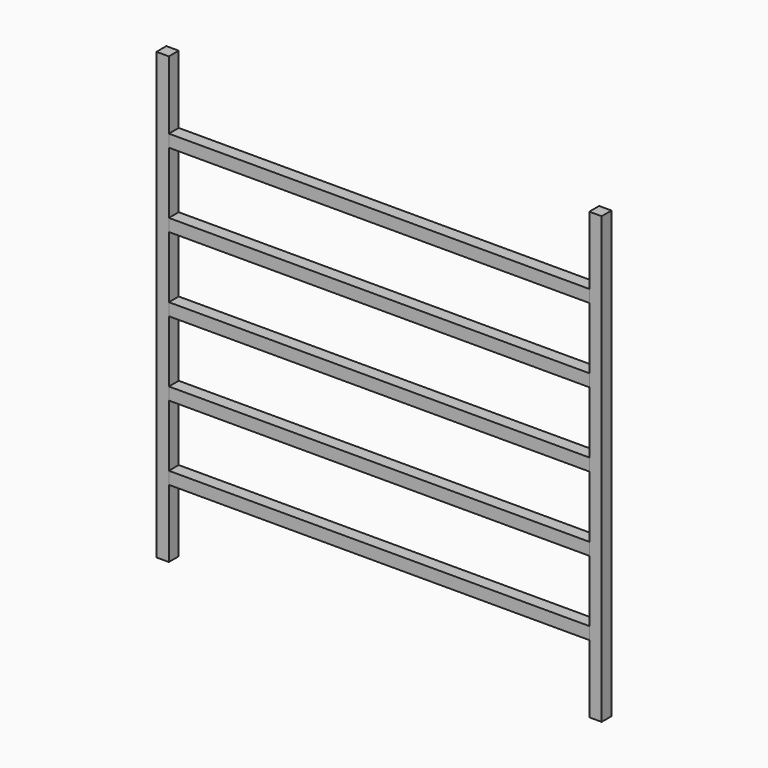
from build123d import *

# Parameters (mm, degrees)
F0_W     = 5
F0_H     = 5
F1_DEPTH = 180
F2_W     = 5
F2_H     = 5
F3_DEPTH = 170


with BuildPart() as f1:
    # F0 (on Top) → F1 (new body)
    with BuildSketch(Plane.XY):
        with Locations((2.5, -2.5)):
            Rectangle(F0_W, F0_H)
        with Locations((177.5, -2.5)):
            Rectangle(F0_W, F0_H)
    extrude(amount=F1_DEPTH)


with BuildPart() as f3:
    # F2 (on face) → F3 (new body)
    with BuildSketch(Plane.YZ.offset(5)):
        with Locations((-2.5, 30)):
            Rectangle(F2_W, F2_H)
        with Locations((-2.5, 60)):
            Rectangle(F2_W, F2_H)
        with Locations((-2.5, 90)):
            Rectangle(F2_W, F2_H)
        with Locations((-2.5, 120)):
            Rectangle(F2_W, F2_H)
        with Locations((-2.5, 150)):
            Rectangle(F2_W, F2_H)
    extrude(amount=F3_DEPTH)


solid = Compound([f1.part, f3.part])
